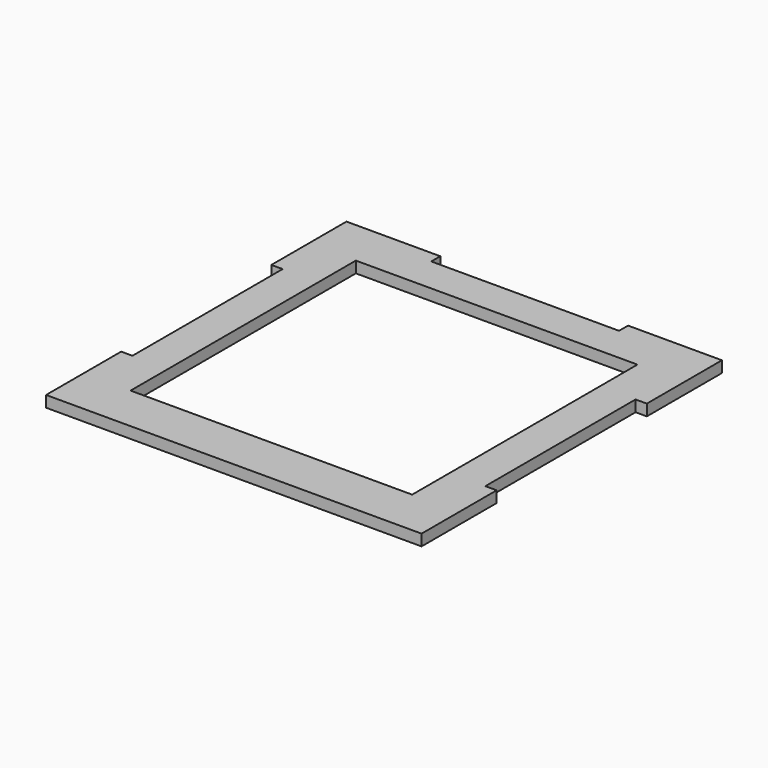
from build123d import *

# Parameters (mm, degrees)
F0_W     = 150
F0_H     = 150
F1_DEPTH = 6


with BuildPart() as f1:
    # F0 (on Top) → F1 (new body)
    with BuildSketch(Plane.XY):
        Polygon((-50, 119.823551), (-100, 119.823551), (-100, 69.823551), (-94, 69.823551), (-94, -30.176449), (-100, -30.176449), (-100, -80.176449), (100, -80.176449), (100, -30.176449), (94, -30.176449), (94, 69.823551), (100, 69.823551), (100, 119.823551), (50, 119.823551), (50, 113.823551), (-50, 113.823551), align=None)
        with Locations((0, 19.823551)):
            Rectangle(F0_W, F0_H, mode=Mode.SUBTRACT)
    extrude(amount=F1_DEPTH)


solid = f1.part
